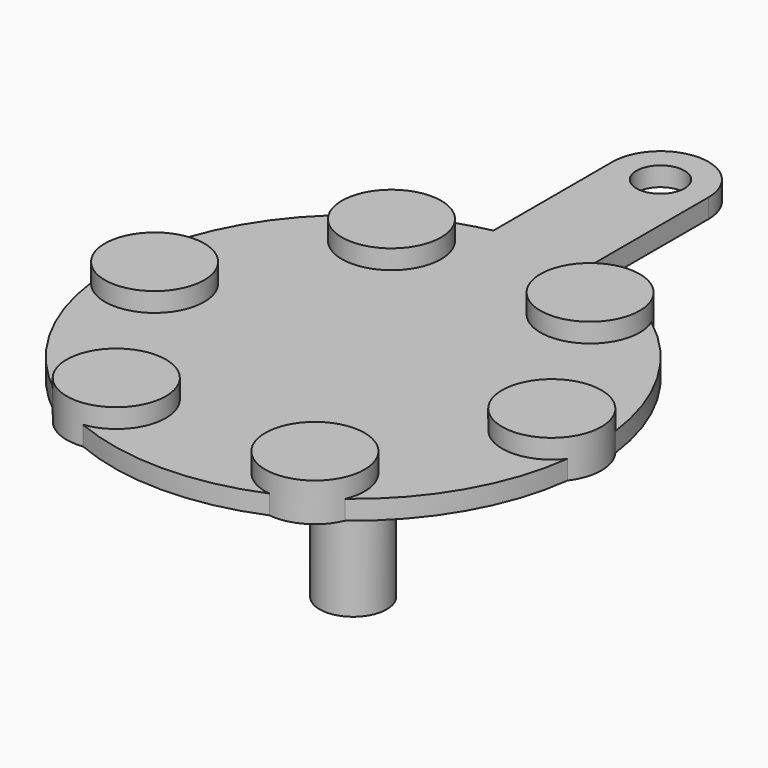
from build123d import *

# Parameters (mm, degrees)
F0_R     = 3.5
F1_DEPTH = 20
F2_R     = 25
F3_DEPTH = 2
F4_R     = 5.17
F5_DEPTH = 4
F6_R     = 2.5
F7_DEPTH = 2


with BuildPart() as f1:
    # F0 (on Top) → F1 (new body)
    with BuildSketch(Plane.XY):
        Circle(F0_R)
    extrude(amount=-F1_DEPTH)

    # F2 (on Top) → F3 (join)
    with BuildSketch(Plane.XY):
        Circle(F2_R)
    extrude(amount=F3_DEPTH)

    # F4 (on Top) → F5 (join)
    with BuildSketch(Plane.XY):
        with Locations((-20.68, 0)):
            Circle(F4_R)
        with Locations((-10.34, -17.909405)):
            Circle(F4_R)
        with Locations((10.34, -17.909405)):
            Circle(F4_R)
        with Locations((20.68, 0)):
            Circle(F4_R)
        with Locations((10.34, 17.909405)):
            Circle(F4_R)
        with Locations((-10.34, 17.909405)):
            Circle(F4_R)
    extrude(amount=F5_DEPTH)

    # F6 (on face) → F7 (join)
    with BuildSketch(Plane.XY.offset(2)):
        with BuildLine():
            Line((-5, 40), (-5, 0))
            Line((-5, 0), (5, 0))
            Line((5, 0), (5, 40))
            ThreePointArc((5, 40), (0, 45), (-5, 40))
        make_face()
        with Locations((0, 40)):
            Circle(F6_R, mode=Mode.SUBTRACT)
    extrude(amount=-F7_DEPTH)


solid = f1.part
